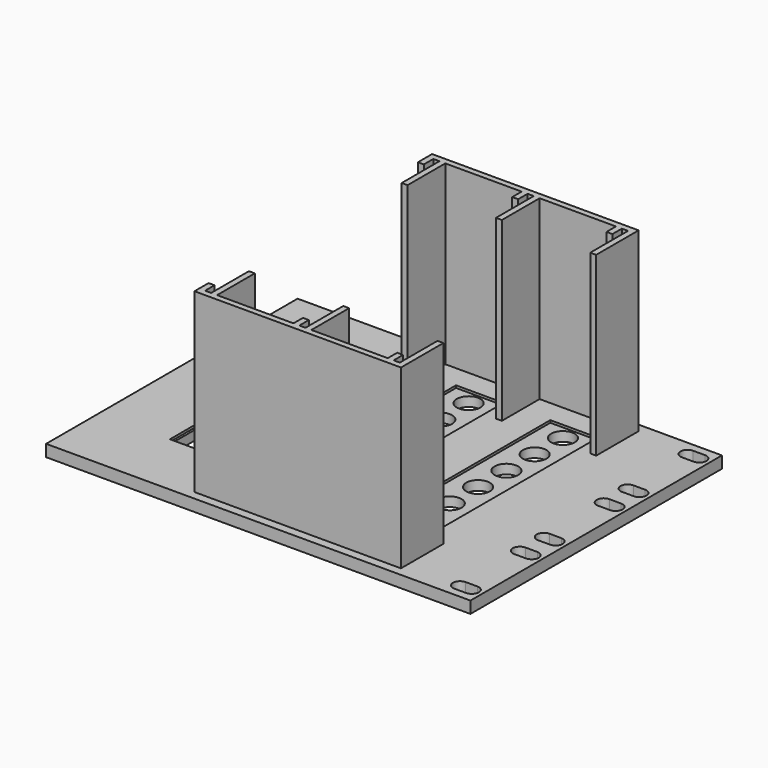
from build123d import *

# Parameters (mm, degrees)
SKETCH_W        = 180
SKETCH_H        = 133.35
PAD_DEPTH       = 5
SKETCH001_W     = 20.2
SKETCH001_H     = 101.85
SKETCH001_W_2   = 30
SKETCH001_H_2   = 77
POCKET_DEPTH    = 1
SKETCH002_W     = 28
SKETCH002_H     = 75
POCKET001_DEPTH = 4
SKETCH003_R     = 5
POCKET002_DEPTH = 4
SKETCH004_R     = 5
POCKET003_DEPTH = 4
PAD001_DEPTH    = 75


with BuildPart() as part:
    # Sketch (on XY_Plane of Origin) → Pad (new body)
    with BuildSketch(Plane.XY):
        with Locations((-90, 66.675)):
            Rectangle(SKETCH_W, SKETCH_H)
        with BuildLine():
            ThreePointArc((-9.5, 130), (-12.5, 127), (-9.5, 124))
            Line((-9.5, 124), (-4.5, 124))
            ThreePointArc((-4.5, 124), (-1.5, 127), (-4.5, 130))
            Line((-9.5, 130), (-4.5, 130))
        make_face(mode=Mode.SUBTRACT)
        with BuildLine():
            ThreePointArc((-9.5, 98.25), (-12.5, 95.25), (-9.5, 92.25))
            Line((-9.5, 92.25), (-4.5, 92.25))
            ThreePointArc((-4.5, 92.25), (-1.5, 95.25), (-4.5, 98.25))
            Line((-9.5, 98.25), (-4.5, 98.25))
        make_face(mode=Mode.SUBTRACT)
        with BuildLine():
            ThreePointArc((-9.5, 85.55), (-12.5, 82.55), (-9.5, 79.55))
            Line((-9.5, 79.55), (-4.5, 79.55))
            ThreePointArc((-4.5, 79.55), (-1.5, 82.55), (-4.5, 85.55))
            Line((-9.5, 85.55), (-4.5, 85.55))
        make_face(mode=Mode.SUBTRACT)
        with BuildLine():
            ThreePointArc((-9.5, 53.8), (-12.5, 50.8), (-9.5, 47.8))
            Line((-9.5, 47.8), (-4.5, 47.8))
            ThreePointArc((-4.5, 47.8), (-1.5, 50.8), (-4.5, 53.8))
            Line((-9.5, 53.8), (-4.5, 53.8))
        make_face(mode=Mode.SUBTRACT)
        with BuildLine():
            ThreePointArc((-9.5, 41.1), (-12.5, 38.1), (-9.5, 35.1))
            Line((-9.5, 35.1), (-4.5, 35.1))
            ThreePointArc((-4.5, 35.1), (-1.5, 38.1), (-4.5, 41.1))
            Line((-9.5, 41.1), (-4.5, 41.1))
        make_face(mode=Mode.SUBTRACT)
        with BuildLine():
            ThreePointArc((-9.5, 9.35), (-12.5, 6.35), (-9.5, 3.35))
            Line((-9.5, 3.35), (-4.5, 3.35))
            ThreePointArc((-4.5, 3.35), (-1.5, 6.35), (-4.5, 9.35))
            Line((-9.5, 9.35), (-4.5, 9.35))
        make_face(mode=Mode.SUBTRACT)
    extrude(amount=PAD_DEPTH)

    # Sketch001 (on Face30 of Pad) → Pocket (cut)
    with BuildSketch(Plane.XY.offset(5)):
        with Locations((-50.1, 66.675)):
            Rectangle(SKETCH001_W, SKETCH001_H)
        with Locations((-90.1, 66.675)):
            Rectangle(SKETCH001_W, SKETCH001_H)
        with Locations((-135, 66.675)):
            Rectangle(SKETCH001_W_2, SKETCH001_H_2)
    extrude(amount=-POCKET_DEPTH, mode=Mode.SUBTRACT)

    # Sketch002 (on Face43 of Pocket) → Pocket001 (cut)
    with BuildSketch(Plane.XY.offset(4)):
        with Locations((-135, 66.675)):
            Rectangle(SKETCH002_W, SKETCH002_H)
    extrude(amount=-POCKET001_DEPTH, mode=Mode.SUBTRACT)

    # Sketch003 (on Face48 of Pocket001) → Pocket002 (cut)
    with BuildSketch(Plane.XY.offset(4)):
        with Locations((-90.1, 66.675)):
            Circle(SKETCH003_R)
        with Locations((-90.1, 81.675)):
            Circle(SKETCH003_R)
        with Locations((-90.1, 96.675)):
            Circle(SKETCH003_R)
        with Locations((-90.1, 111.675)):
            Circle(SKETCH003_R)
        with Locations((-90.1, 51.675)):
            Circle(SKETCH003_R)
        with Locations((-90.1, 36.675)):
            Circle(SKETCH003_R)
        with Locations((-90.1, 21.675)):
            Circle(SKETCH003_R)
    extrude(amount=-POCKET002_DEPTH, mode=Mode.SUBTRACT)

    # Sketch004 (on Face56 of Pocket002) → Pocket003 (cut)
    with BuildSketch(Plane.XY.offset(4)):
        with Locations((-50.1, 66.675)):
            Circle(SKETCH004_R)
        with Locations((-50.1, 81.675)):
            Circle(SKETCH004_R)
        with Locations((-50.1, 96.675)):
            Circle(SKETCH004_R)
        with Locations((-50.1, 111.675)):
            Circle(SKETCH004_R)
        with Locations((-50.1, 51.675)):
            Circle(SKETCH004_R)
        with Locations((-50.1, 36.675)):
            Circle(SKETCH004_R)
        with Locations((-50.1, 21.675)):
            Circle(SKETCH004_R)
    extrude(amount=-POCKET003_DEPTH, mode=Mode.SUBTRACT)

    # Sketch005 (on Face5 of Pocket003) → Pad001 (join)
    with BuildSketch(Plane.XY.offset(5)):
        Polygon((-32.4, 129.675), (-120, 129.675), (-120, 122.175), (-117.5, 122.175), (-117.5, 127.175), (-114.9, 127.175), (-114.9, 107.175), (-112.4, 107.175), (-112.4, 127.175), (-80, 127.175), (-80, 122.175), (-77.5, 122.175), (-77.5, 127.175), (-74.9, 127.175), (-74.9, 107.175), (-72.4, 107.175), (-72.4, 127.175), (-40, 127.175), (-40, 122.175), (-37.5, 122.175), (-37.5, 127.175), (-34.9, 127.175), (-34.9, 107.175), (-32.4, 107.175), align=None)
        Polygon((-32.4, 3.675), (-32.4, 26.175), (-34.9, 26.175), (-34.9, 6.175), (-37.5, 6.175), (-37.5, 11.175), (-40, 11.175), (-40, 6.175), (-72.4, 6.175), (-72.4, 26.175), (-74.9, 26.175), (-74.9, 6.175), (-77.5, 6.175), (-77.5, 11.175), (-80, 11.175), (-80, 6.175), (-112.4, 6.175), (-112.4, 26.175), (-114.9, 26.175), (-114.9, 6.175), (-117.5, 6.175), (-117.5, 11.175), (-120, 11.175), (-120, 3.675), align=None)
    extrude(amount=PAD001_DEPTH)


solid = part.part
